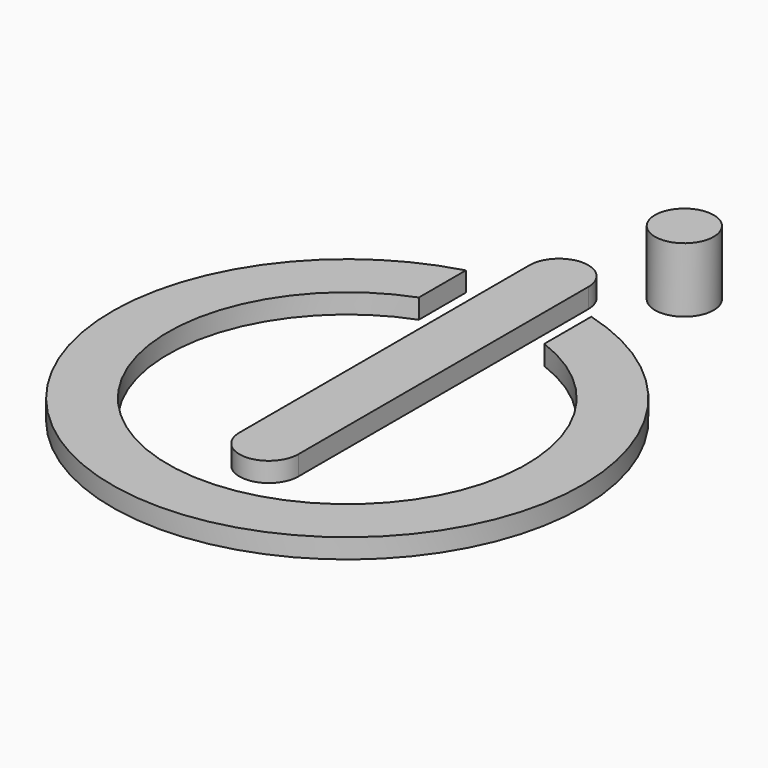
from build123d import *

# Parameters (mm, degrees)
EXTRUDE_DEPTH   = 3.3
SKETCH003_R     = 1.5
POCKET001_DEPTH = 3.301
PAD_DEPTH       = 1


with BuildPart() as casino_chip:
    # Sketch → Extrude (new body)
    with BuildSketch(Plane.XY):
        with BuildLine():
            ThreePointArc((3.5, 21.5), (0, 25), (-3.5, 21.5))
            Line((-3.5, 21.5), (-3.5, 19.691369))
            ThreePointArc((-3.5, 19.691369), (0, -20), (3.5, 19.691369))
            Line((3.5, 19.691369), (3.5, 21.5))
        make_face()
    extrude(amount=EXTRUDE_DEPTH)


with BuildPart() as pocket001:
    # Pocket001 base: copy of casino-chip
    add(casino_chip.part)

    # Sketch003 → Pocket001 (cut, through all)
    with BuildSketch(Plane.XY.offset(3.3)):
        with Locations((0, 21.5)):
            Circle(SKETCH003_R)
    extrude(amount=-POCKET001_DEPTH, mode=Mode.SUBTRACT)


with BuildPart() as cut001:
    # Pad base: copy of casino-chip
    add(casino_chip.part)

    # Sketch002 → Pad (new body)
    with BuildSketch(Plane.XY.offset(3.3)):
        with BuildLine():
            ThreePointArc((1.5, 13.5), (0, 15), (-1.5, 13.5))
            Line((-1.5, 13.5), (-1.5, -5))
            ThreePointArc((-1.5, -5), (0, -6.5), (1.5, -5))
            Line((1.5, 13.5), (1.5, -5))
        make_face()
        with BuildLine():
            ThreePointArc((-3.2, 11.565466), (0, -12), (3.2, 11.565466))
            Line((3.2, 11.565466), (3.2, 8.565466))
            ThreePointArc((-3.2, 8.565466), (0, -9.143698), (3.2, 8.565466))
            Line((-3.2, 11.565466), (-3.2, 8.565466))
        make_face()
    extrude(amount=PAD_DEPTH)

    # Cut001: cut Pocket001
    add(pocket001.part, mode=Mode.SUBTRACT)


solid = cut001.part
